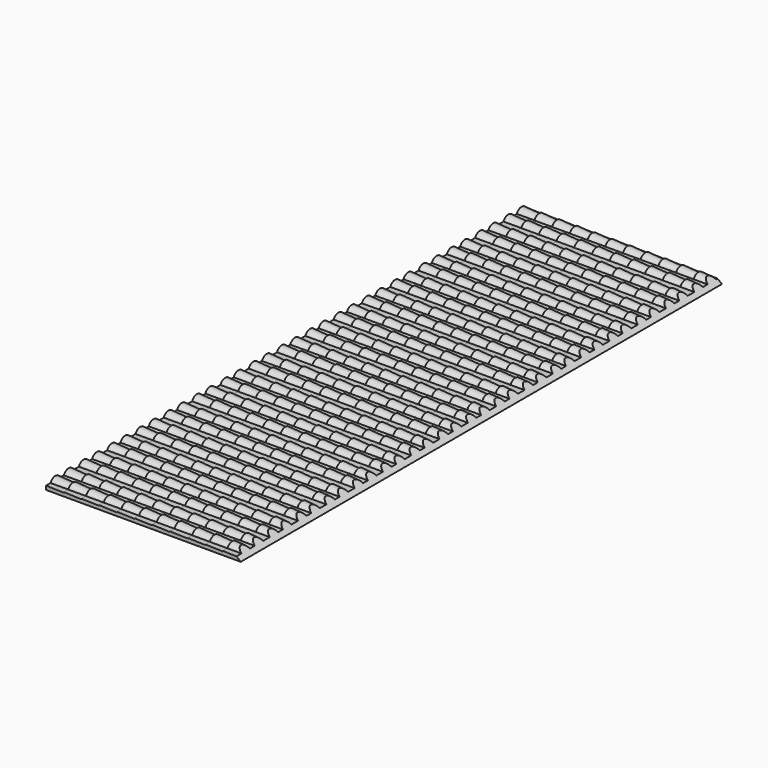
from build123d import *

# Parameters (mm, degrees)
CONE_ANGLE    = 180
PAD_DEPTH     = 6.4
ARRAY_X_COUNT = 11
ARRAY_X_PITCH = 3.2
ARRAY_Y_COUNT = 17
ARRAY_Y_PITCH = 6.4
POCKET_DEPTH  = 108.801


with BuildPart() as obj1:
    # Cone → Cone (revolve)
    with BuildSketch(Plane(origin=(0, -4.3, 0.2), x_dir=(0, 1, 0), z_dir=(0, 0, -1))):
        Polygon((0, 0), (1.2, 0), (1, 3.2), (0, 3.2), align=None)
    revolve(axis=Axis((0, -4.3, 0.2), (1, 0, 0)), revolution_arc=CONE_ANGLE)


with BuildPart() as obj2:
    # Clone base: copy of obj1
    add(obj1.part)


with BuildPart() as obj2_1:
    # Clone placement: moved
    add(obj2.part.moved(Location((0, 3, 0))))


with BuildPart() as pocket:
    # Sketch001 → Pad (new body)
    with BuildSketch(Plane.XZ):
        Polygon((0, 0.7), (0, 0), (3.2, 0), (3.2, 0.6), align=None)
    extrude(amount=PAD_DEPTH)

    # Fusion: union obj1, obj2
    add(obj1.part)
    add(obj2_1.part)

    # Array X: Pocket ×11


with BuildPart() as pocket_1:
    add(pocket.part)
    with Locations(*[(i * ARRAY_X_PITCH, 0, 0) for i in range(1, ARRAY_X_COUNT)]):
        add(pocket.part)

    # Array Y: Pocket ×17


with BuildPart() as pocket_2:
    add(pocket_1.part)
    with Locations(*[(0, i * ARRAY_Y_PITCH, 0) for i in range(1, ARRAY_Y_COUNT)]):
        add(pocket_1.part)

    # Sketch → Pocket (cut, through all)
    with BuildSketch(Plane(origin=(0, 102.4, 0), x_dir=(-1, 0, 0), z_dir=(0, 1, 0))):
        Polygon((-35.2, 20), (-35.2, 0), (-10.2, 20), align=None)
    extrude(amount=-POCKET_DEPTH, mode=Mode.SUBTRACT)


solid = pocket_2.part
